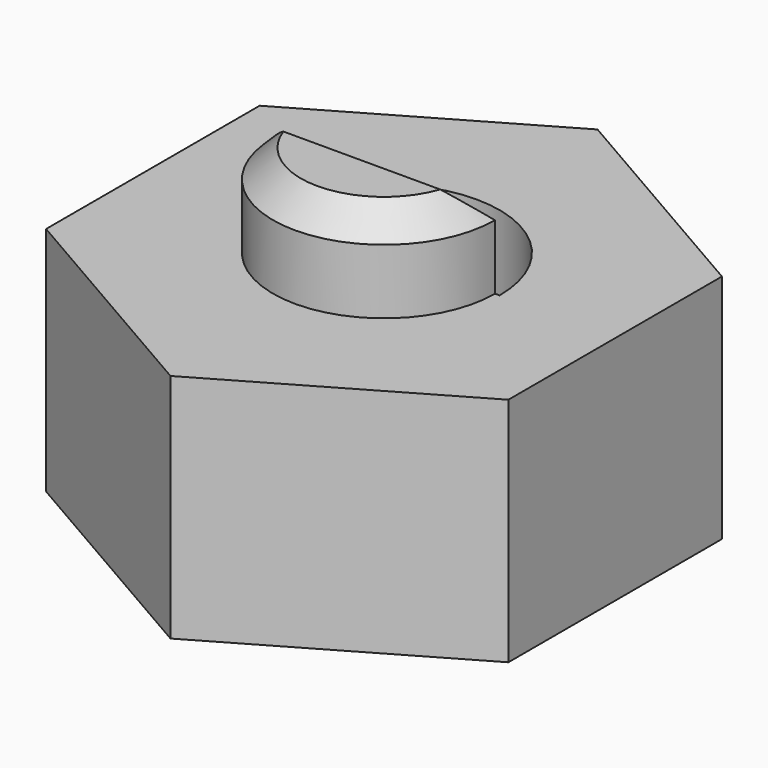
from build123d import *

# Parameters (mm, degrees)
F1_DEPTH = 25
F3_DEPTH = 10
F4_SIZE  = 3
F6_DEPTH = 11


with BuildPart() as f1:
    # F0 (on Top) → F1 (new body)
    with BuildSketch(Plane.XY):
        Polygon((-25, 14.4337567297), (-25, -14.4337567297), (0, -28.8675134595), (25, -14.4337567297), (25, 14.4337567297), (0, 28.8675134595), align=None)
    extrude(amount=F1_DEPTH)

    # F2 (on face) → F3 (join)
    with BuildSketch(Plane.XY.offset(25)):
        with BuildLine():
            ThreePointArc((-12, 0), (0, -12), (12, 0))
            Line((12, 0), (-12, 0))
        make_face()
    extrude(amount=F3_DEPTH)

    # F4
    f4_edges = [f1.edges().sort_by_distance(p)[0] for p in [
        (0, 0, 35),
        (0, -12, 35),
    ]]
    chamfer(f4_edges, length=F4_SIZE)

    # F5 (on face) + F2 (on face) → F6 (cut)
    with BuildSketch(Plane.XY.offset(25)):
        with BuildLine():
            Line((12, 0), (12.5, 0))
            ThreePointArc((12.5, 0), (0, 12.5), (-12.5, 0))
            Line((-12.5, 0), (-12, 0))
            ThreePointArc((-12, 0), (0, 12), (12, 0))
        make_face()
    with BuildSketch(Plane.XY.offset(25)):
        with BuildLine():
            Line((-12, 0), (12, 0))
            ThreePointArc((12, 0), (0, 12), (-12, 0))
        make_face()
    extrude(amount=-F6_DEPTH, mode=Mode.SUBTRACT)


solid = f1.part
